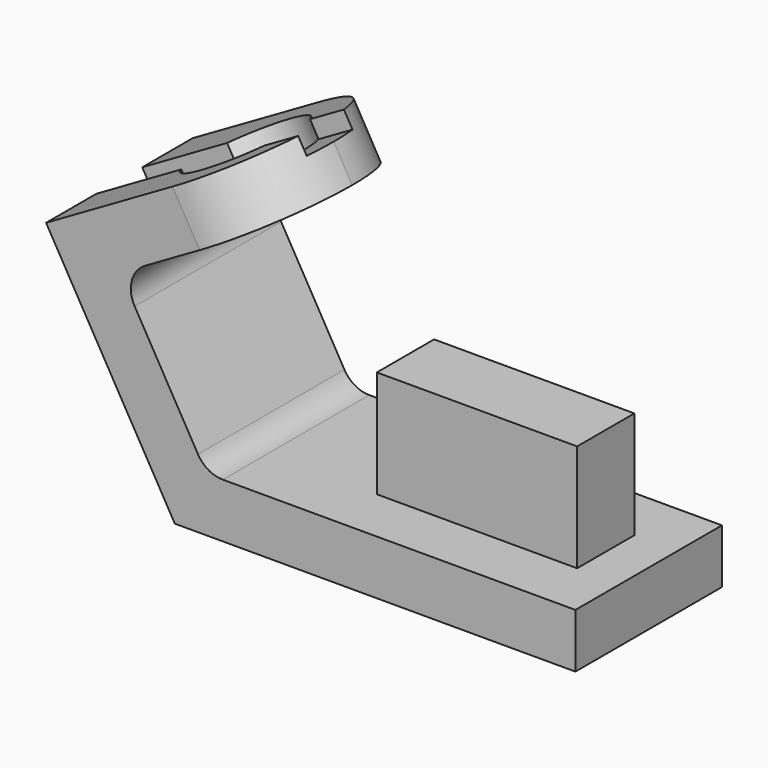
from build123d import *

# Parameters (mm, degrees)
F1_DEPTH  = 64
F3_DEPTH  = 25
F4_R      = 19.5
F4_R_2    = 6
F5_DEPTH  = 12
F6_R      = 7.2312800618
F7_DEPTH  = 7
F8_W      = 20
F8_H      = 56
F9_DEPTH  = 6
F10_W     = 88.7789055705
F10_H     = 20
F11_DEPTH = 6
F12_R     = 10
F13_R     = 10
F14_W     = 70
F14_H     = 25
F15_DEPTH = 37.5


with BuildPart() as f1:
    # F0 (on Front) → F1 (new body)
    with BuildSketch(Plane.XZ):
        Polygon((-45, 77.9422863406), (0, 0), (140, 0), (140, 19), (10.9696551146, 19), (-19.0455173281, 70.9878036687), (36.3801085141, 102.9878036687), (26.8801085141, 119.4422863406), align=None)
    extrude(amount=-F1_DEPTH)

    # F2 (on face) → F3 (cut)
    with BuildSketch(Plane(origin=(-45, 0, 77.9422863406), x_dir=(0.8660254038, 0, 0.5), z_dir=(-0.5, 0, 0.8660254038))):
        with BuildLine():
            ThreePointArc((51, 64), (73.627416998, 54.627416998), (83, 32))
            Line((83, 32), (83, 64))
            Line((83, 64), (51, 64))
        make_face()
        with BuildLine():
            Line((83, 0), (83, 32))
            ThreePointArc((83, 32), (73.627416998, 9.372583002), (51, 0))
            Line((51, 0), (83, 0))
        make_face()
    extrude(amount=-F3_DEPTH, mode=Mode.SUBTRACT)

    # F4 (on face) → F5 (cut)
    with BuildSketch(Plane(origin=(-45, 0, 77.9422863406), x_dir=(0.8660254038, 0, 0.5), z_dir=(-0.5, 0, 0.8660254038))):
        with Locations((51, 32)):
            Circle(F4_R)
        with Locations((51, 32)):
            Circle(F4_R_2, mode=Mode.SUBTRACT)
        with Locations((51, 32)):
            Circle(F4_R)
        with Locations((51, 32)):
            Circle(F4_R_2, mode=Mode.SUBTRACT)
        with Locations((51, 32)):
            Circle(F4_R_2)
    extrude(amount=-F5_DEPTH, mode=Mode.SUBTRACT)

    # F6 (on face) → F7 (cut, through all)
    with BuildSketch(Plane(origin=(-39, 0, 67.5499814952), x_dir=(0.8660254038, 0, 0.5), z_dir=(-0.5, 0, 0.8660254038))):
        with Locations((51, 32)):
            Circle(F6_R)
    extrude(amount=-F7_DEPTH, mode=Mode.SUBTRACT)

    # F8 (on face) → F9 (cut)
    with BuildSketch(Plane(origin=(0, 0, 0), x_dir=(0, -1, 0), z_dir=(-0.8660254038, 0, -0.5))):
        with Locations((-32, 62)):
            Rectangle(F8_W, F8_H)
    extrude(amount=-F9_DEPTH, mode=Mode.SUBTRACT)

    # F10 (on face) → F11 (cut)
    with BuildSketch(Plane(origin=(-45, 0, 77.9422863406), x_dir=(0.8660254038, 0, 0.5), z_dir=(-0.5, 0, 0.8660254038))):
        with Locations((44.3894527853, 32)):
            Rectangle(F10_W, F10_H)
    extrude(amount=-F11_DEPTH, mode=Mode.SUBTRACT)

    # F12
    f12_edges = [f1.edges().sort_by_distance(p)[0] for p in [
        (-19.045517, 32, 70.987804),
    ]]
    fillet(f12_edges, radius=F12_R)

    # F13
    f13_edges = [f1.edges().sort_by_distance(p)[0] for p in [
        (10.969655, 32, 19),
    ]]
    fillet(f13_edges, radius=F13_R)

    # F14 (on face) → F15 (join)
    with BuildSketch(Plane.XY.offset(19)):
        with Locations((90, 32)):
            Rectangle(F14_W, F14_H)
    extrude(amount=F15_DEPTH)


solid = f1.part
